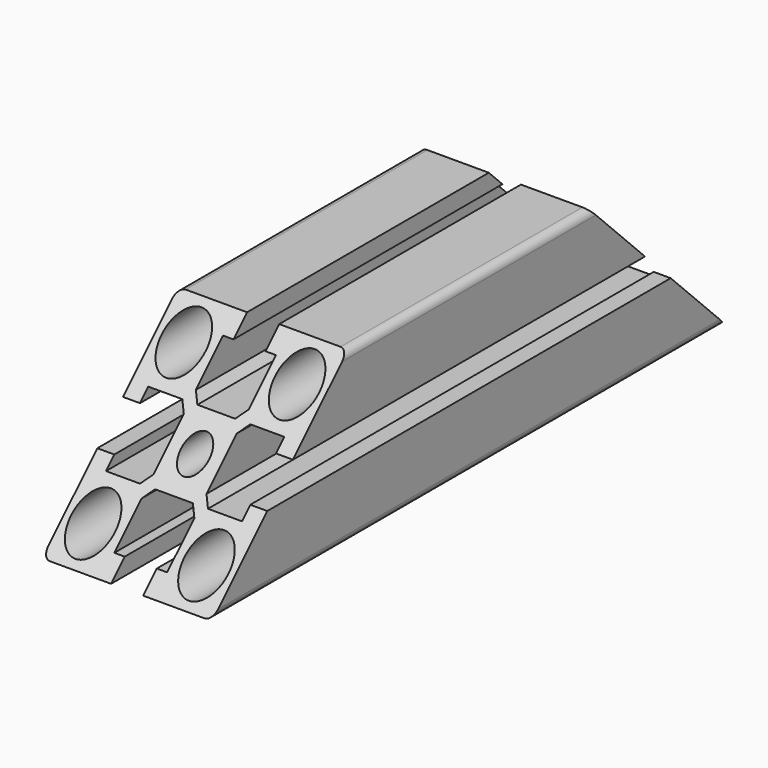
from build123d import *

# Parameters (mm, degrees)
F0_R     = 5.85
F0_R_2   = 3.75
F1_DEPTH = 170
F3_DEPTH = 45.001
F4_R     = 4.5
F5_DEPTH = 120.209153


with BuildPart() as f1:
    # F0 (on Front) → F1 (new body)
    with BuildSketch(Plane.XZ):
        with BuildLine():
            ThreePointArc((22.5, 20.5), (21.914214, 21.914214), (20.5, 22.5))
            Line((20.5, 22.5), (4.25, 22.5))
            Line((4.25, 22.5), (4.25, 18))
            Line((4.25, 18), (7, 18))
            Line((7, 18), (7, 9))
            Line((7, 9), (5, 7))
            Line((5, 7), (-5, 7))
            Line((-5, 7), (-7, 9))
            Line((-7, 9), (-7, 18))
            Line((-7, 18), (-4.25, 18))
            Line((-4.25, 18), (-4.25, 22.5))
            Line((-4.25, 22.5), (-20.5, 22.5))
            ThreePointArc((-20.5, 22.5), (-21.914214, 21.914214), (-22.5, 20.5))
            Line((-22.5, 20.5), (-22.5, 4.25))
            Line((-22.5, 4.25), (-18, 4.25))
            Line((-18, 4.25), (-18, 7))
            Line((-18, 7), (-9, 7))
            Line((-9, 7), (-7, 5))
            Line((-7, 5), (-7, -5))
            Line((-7, -5), (-9, -7))
            Line((-9, -7), (-18, -7))
            Line((-18, -7), (-18, -4.25))
            Line((-18, -4.25), (-22.5, -4.25))
            Line((-22.5, -4.25), (-22.5, -20.5))
            ThreePointArc((-22.5, -20.5), (-21.914214, -21.914214), (-20.5, -22.5))
            Line((-20.5, -22.5), (-4.25, -22.5))
            Line((-4.25, -22.5), (-4.25, -18))
            Line((-4.25, -18), (-7, -18))
            Line((-7, -18), (-7, -9))
            Line((-7, -9), (-5, -7))
            Line((-5, -7), (5, -7))
            Line((5, -7), (7, -9))
            Line((7, -9), (7, -18))
            Line((7, -18), (4.25, -18))
            Line((4.25, -18), (4.25, -22.5))
            Line((4.25, -22.5), (20.5, -22.5))
            ThreePointArc((20.5, -22.5), (21.914214, -21.914214), (22.5, -20.5))
            Line((22.5, -20.5), (22.5, -4.25))
            Line((22.5, -4.25), (18, -4.25))
            Line((18, -4.25), (18, -7))
            Line((18, -7), (9, -7))
            Line((9, -7), (7, -5))
            Line((7, -5), (7, 5))
            Line((7, 5), (9, 7))
            Line((9, 7), (18, 7))
            Line((18, 7), (18, 4.25))
            Line((18, 4.25), (22.5, 4.25))
            Line((22.5, 4.25), (22.5, 20.5))
        make_face()
        with Locations((-15, -15)):
            Circle(F0_R, mode=Mode.SUBTRACT)
        with Locations((15, -15)):
            Circle(F0_R, mode=Mode.SUBTRACT)
        with Locations((-15, 15)):
            Circle(F0_R, mode=Mode.SUBTRACT)
        Circle(F0_R_2, mode=Mode.SUBTRACT)
        with Locations((15, 15)):
            Circle(F0_R, mode=Mode.SUBTRACT)
    extrude(amount=F1_DEPTH)

    # F2 (on face) → F3 (cut, through all)
    with BuildSketch(Plane.YZ.offset(22.5)):
        Polygon((-170, 22.5), (-170, -22.5), (-125, 22.5), align=None)
        Polygon((0, -22.5), (0, 22.5), (-45, 22.5), align=None)
    extrude(amount=-F3_DEPTH, mode=Mode.SUBTRACT)

    # F4 (on face) → F5 (cut, through all)
    with BuildSketch(Plane(origin=(0, -11.25, -11.25), x_dir=(-1, 0, 0), z_dir=(0, 0.707107, 0.707107))):
        with Locations((0, 25.229708)):
            Circle(F4_R)
    extrude(amount=-F5_DEPTH, mode=Mode.SUBTRACT)


solid = f1.part
